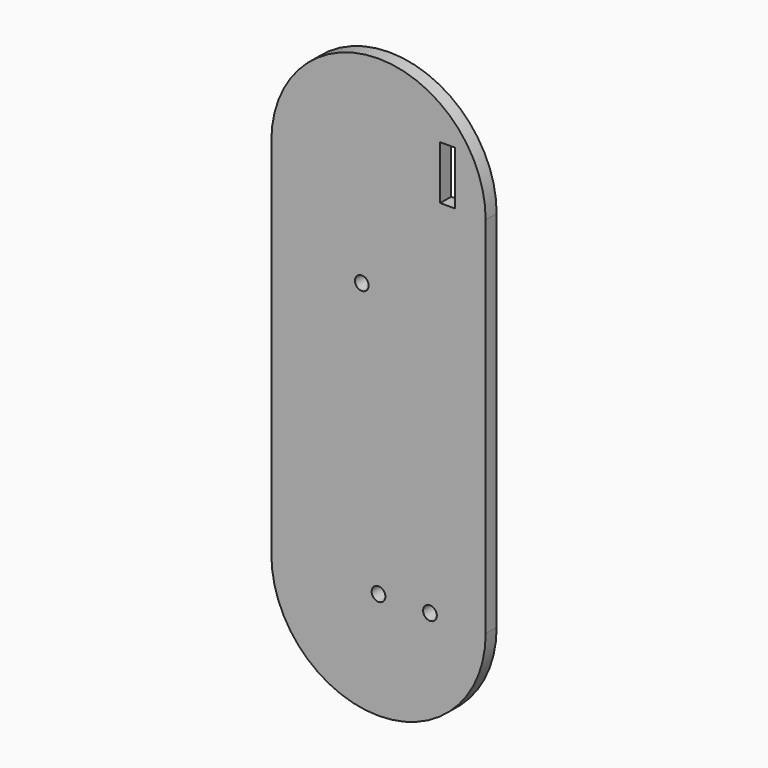
from build123d import *

# Parameters (mm, degrees)
F0_R     = 1.6
F0_W     = 3.4
F0_H     = 12.5
F1_DEPTH = 3.2


with BuildPart() as f1:
    # F0 (on Front) → F1 (new body)
    with BuildSketch(Plane.XZ):
        with BuildLine():
            Line((-25.051908, 62.927413), (-25.051908, -22.072587))
            ThreePointArc((-25.051908, -22.072587), (-0.051908, -47.072587), (24.948092, -22.072587))
            Line((24.948092, -22.072587), (24.948092, 62.927413))
            ThreePointArc((24.948092, 62.927413), (-0.051908, 87.927413), (-25.051908, 62.927413))
        make_face()
        with Locations((-0.051908, -22.072587)):
            Circle(F0_R, mode=Mode.SUBTRACT)
        with Locations((11.948092, -22.072587)):
            Circle(F0_R, mode=Mode.SUBTRACT)
        with Locations((-3.952201, 40.528232)):
            Circle(F0_R, mode=Mode.SUBTRACT)
        with Locations((16.048092, 69.17741)):
            Rectangle(F0_W, F0_H, mode=Mode.SUBTRACT)
    extrude(amount=F1_DEPTH)


solid = f1.part
